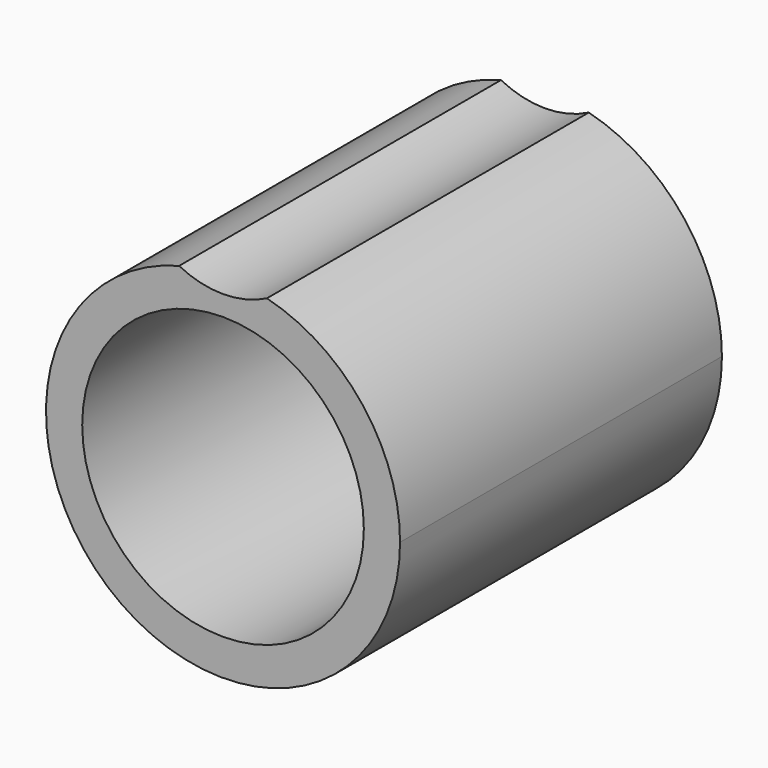
from build123d import *

# Parameters (mm, degrees)
F0_R     = 8.75
F1_DEPTH = 25


with BuildPart() as f1:
    # F0 (on Front) → F1 (new body)
    with BuildSketch(Plane.XZ):
        with BuildLine():
            ThreePointArc((-2.728431, 10.65625), (-6.744897, -8.68944), (11, 0))
            ThreePointArc((11, 0), (8.68944, 6.744897), (2.728431, 10.65625))
            ThreePointArc((2.728431, 10.65625), (0, 10), (-2.728431, 10.65625))
        make_face()
        Circle(F0_R, mode=Mode.SUBTRACT)
    extrude(amount=F1_DEPTH)


solid = f1.part
